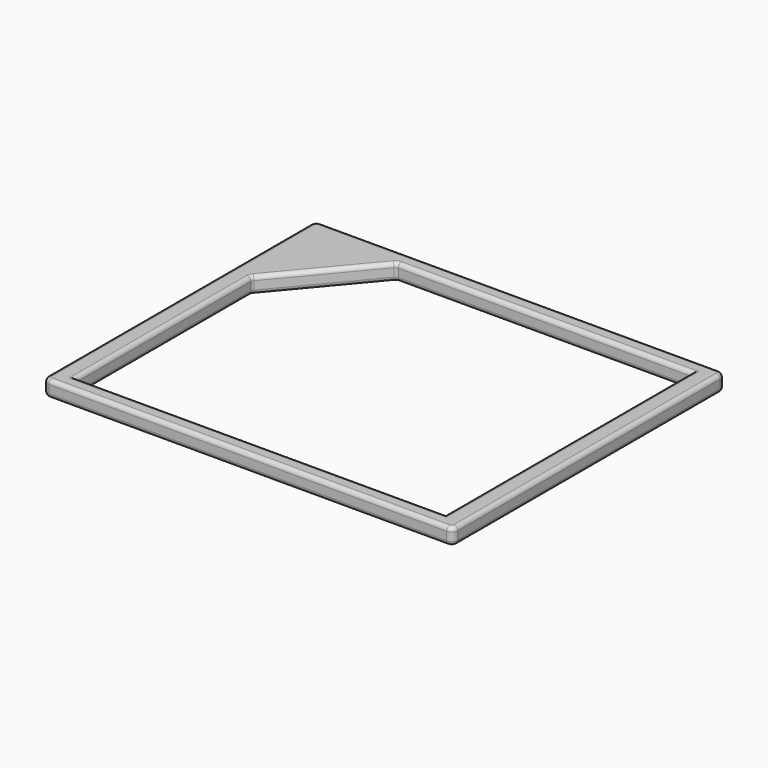
from build123d import *

# Parameters (mm, degrees)
PAD_DEPTH = 0.8
FILLET_R  = 0.2


with BuildPart() as part:
    # Sketch → Pad (new body)
    with BuildSketch(Plane.XY):
        with BuildLine():
            Line((0.3, 0), (19.7, 0))
            ThreePointArc((19.7, 0), (19.912132, 0.087868), (20, 0.3))
            Line((20, 16.3), (20, 0.3))
            ThreePointArc((20, 16.3), (19.912132, 16.512132), (19.7, 16.6))
            Line((19.7, 16.6), (0.3, 16.6))
            ThreePointArc((0.3, 16.6), (0.087868, 16.512132), (0, 16.3))
            Line((0, 16.3), (0, 0.3))
            ThreePointArc((0, 0.3), (0.087868, 0.087868), (0.3, 0))
        make_face()
        with BuildLine():
            Line((19, 15.8), (19, 0.8))
            Line((19, 0.8), (1, 0.8))
            Line((1, 0.8), (1, 11.428862))
            ThreePointArc((1.046791, 11.55742), (1.012061, 11.497266), (1, 11.428862))
            Line((1.046791, 11.55742), (4.546791, 15.728558))
            ThreePointArc((4.7, 15.8), (4.615476, 15.781262), (4.546791, 15.728558))
            Line((4.7, 15.8), (19, 15.8))
        make_face(mode=Mode.SUBTRACT)
    extrude(amount=PAD_DEPTH)

    # Fillet
    fillet_edges = [part.edges().sort_by_distance(p)[0] for p in [
        (0, 8.3, 0.8),
        (0, 8.3, 0),
        (1, 6.114431, 0),
        (19, 8.3, 0),
        (10, 0.8, 0),
        (11.85, 15.8, 0),
        (2.796791, 13.642989, 0),
        (2.796791, 13.642989, 0.8),
        (1, 6.114431, 0.8),
        (11.85, 15.8, 0.8),
        (19, 8.3, 0.8),
        (10, 0.8, 0.8),
    ]]
    fillet(fillet_edges, radius=FILLET_R)


solid = part.part
